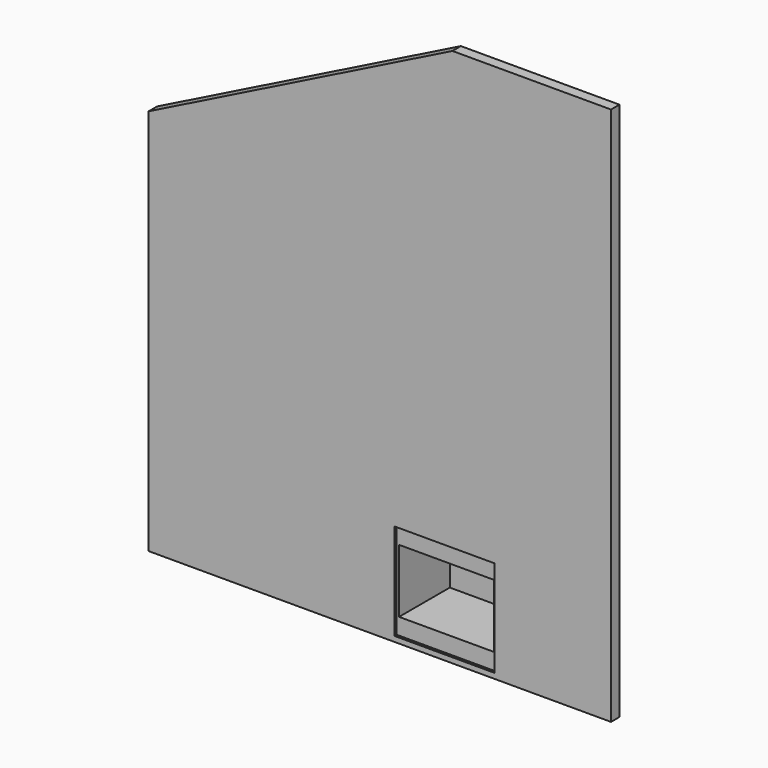
from build123d import *

# Parameters (mm, degrees)
F1_DEPTH = 101.6
F2_W     = 1066.8
F2_H     = 1066.8
F3_DEPTH = 1016
F4_W     = 965.2
F4_H     = 927.1
F5_DEPTH = 25.4
F6_W     = 914.4
F6_H     = 609.6
F7_DEPTH = 609.6


with BuildPart() as f1:
    # F0 (on Front) → F1 (new body)
    with BuildSketch(Plane.XZ):
        Polygon((0, 3720.784616), (0, 0), (4445, 0), (4445, 5181.6), (2921, 5181.6), align=None)
    extrude(amount=F1_DEPTH)

    # F2 (on face) → F3 (join)
    with BuildSketch(Plane.XZ.offset(101.6)):
        with Locations((2895.6, 533.4)):
            Rectangle(F2_W, F2_H)
    extrude(amount=-F3_DEPTH)

    # F4 (on face) → F5 (cut)
    with BuildSketch(Plane.XZ.offset(101.6)):
        with Locations((2844.8, 514.35)):
            Rectangle(F4_W, F4_H)
    extrude(amount=-F5_DEPTH, mode=Mode.SUBTRACT)

    # F6 (on face) → F7 (cut)
    with BuildSketch(Plane.XZ.offset(76.2)):
        with Locations((2844.8, 514.35)):
            Rectangle(F6_W, F6_H)
    extrude(amount=-F7_DEPTH, mode=Mode.SUBTRACT)


solid = f1.part
